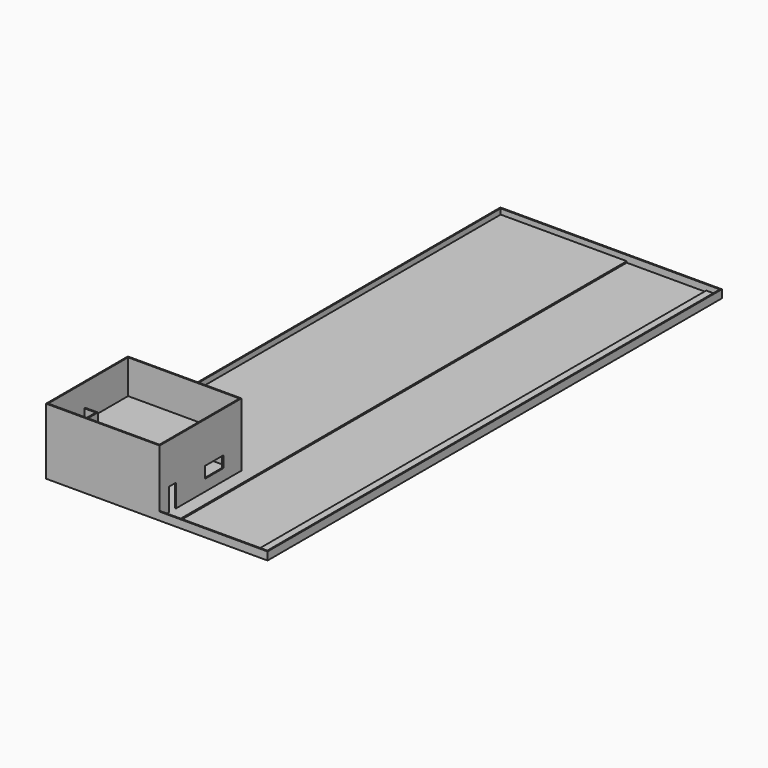
from build123d import *

# Parameters (mm, degrees)
F0_W      = 1.2
F0_H      = 49.8
F0_W_2    = 10
F1_DEPTH  = 0.12
F0_W_3    = 7
F0_H_2    = 0.1
F0_W_4    = 0.1
F1_FACE_W = 11.2
F1_FACE_H = 49.8
F2_DEPTH  = 0.1
F3_DEPTH  = 0.6
F4_W      = 10
F4_H      = 9
F4_W_2    = 0.1
F4_H_2    = 8.8
F5_DEPTH  = 2.5
F6_W      = 0.8
F6_H      = 2
F6_W_2    = 2
F6_H_2    = 1
F7_DEPTH  = 0.1
F8_W      = 0.8
F8_H      = 1.4
F8_H_2    = 2
F9_DEPTH  = 0.1
F11_DEPTH = 1
F12_W     = 10
F12_H     = 9
F12_W_2   = 3
F12_H_2   = 8.8
F13_DEPTH = 0.1
F14_W     = 10
F14_H     = 9
F14_W_2   = 9.8
F14_H_2   = 8.8
F15_DEPTH = 3
F16_W     = 1
F16_H     = 4
F17_DEPTH = 0.2
F18_W     = 0.1
F18_H     = 50
F19_DEPTH = 0.6
F21_DEPTH = 1


with BuildPart() as f1:
    # F0 (on Top) → F1 (new body)
    with BuildSketch(Plane.XY):
        with Locations((10.6, 25)):
            Rectangle(F0_W, F0_H)
        with Locations((5, 25)):
            Rectangle(F0_W_2, F0_H)
    extrude(amount=F1_DEPTH)



with BuildPart() as f1b:
    # F0 (on Top) → F1, piece 2 (new body)
    with BuildSketch(Plane.XY):
        with Locations((18.8, 25)):
            Rectangle(F0_W, F0_H)
    extrude(amount=F1_DEPTH)


with BuildPart() as f1_1:
    add(f1.part)

    add(f1b.part)  # F2 merges F1b
    # F0 (on Top) + F1_face (on face) → F2 (join)
    with BuildSketch(Plane.XY):
        with Locations((5, 25)):
            Rectangle(F0_W_2, F0_H)
        with Locations((10.6, 25)):
            Rectangle(F0_W, F0_H)
        with Locations((18.8, 25)):
            Rectangle(F0_W, F0_H)
        with Locations((14.7, 25)):
            Rectangle(F0_W_3, F0_H)
        with Locations((14.7, 0.05)):
            Rectangle(F0_W_3, F0_H_2)
        with Locations((10.6, 0.05)):
            Rectangle(F0_W, F0_H_2)
        with Locations((18.8, 0.05)):
            Rectangle(F0_W, F0_H_2)
        with Locations((19.45, 25)):
            Rectangle(F0_W_4, F0_H)
        with Locations((19.45, 0.05)):
            Rectangle(F0_W_4, F0_H_2)
        with Locations((5, 0.05)):
            Rectangle(F0_W_2, F0_H_2)
        with Locations((19.45, 49.95)):
            Rectangle(F0_W_4, F0_H_2)
        with Locations((18.8, 49.95)):
            Rectangle(F0_W, F0_H_2)
        with Locations((14.7, 49.95)):
            Rectangle(F0_W_3, F0_H_2)
        with Locations((10.6, 49.95)):
            Rectangle(F0_W, F0_H_2)
        with Locations((5, 49.95)):
            Rectangle(F0_W_2, F0_H_2)
    with BuildSketch(Plane(origin=(5.6, 25, 0.12), x_dir=(1, 0, 0), z_dir=(0, 0, 1))):
        Rectangle(F1_FACE_W, F1_FACE_H)
        Rectangle(F1_FACE_W, F1_FACE_H)
    extrude(amount=-F2_DEPTH)

    # F0 (on Top) → F3 (join)
    with BuildSketch(Plane.XY):
        with Locations((10.6, 49.95)):
            Rectangle(F0_W, F0_H_2)
        with Locations((5, 49.95)):
            Rectangle(F0_W_2, F0_H_2)
        with Locations((14.7, 49.95)):
            Rectangle(F0_W_3, F0_H_2)
        with Locations((18.8, 49.95)):
            Rectangle(F0_W, F0_H_2)
        with Locations((19.45, 25)):
            Rectangle(F0_W_4, F0_H)
        with Locations((19.45, 49.95)):
            Rectangle(F0_W_4, F0_H_2)
        with Locations((19.45, 0.05)):
            Rectangle(F0_W_4, F0_H_2)
        with Locations((18.8, 0.05)):
            Rectangle(F0_W, F0_H_2)
        with Locations((14.7, 0.05)):
            Rectangle(F0_W_3, F0_H_2)
        with Locations((5, 0.05)):
            Rectangle(F0_W_2, F0_H_2)
        with Locations((10.6, 0.05)):
            Rectangle(F0_W, F0_H_2)
    extrude(amount=F3_DEPTH)

    # F4 (on face) → F5 (join)
    with BuildSketch(Plane.XY.offset(0.12)):
        with Locations((5, 4.5)):
            Rectangle(F4_W, F4_H)
        Polygon((6.8, 0.1), (0.1, 0.1), (0.1, 8.9), (6.8, 8.9), (6.9, 8.9), (9.9, 8.9), (9.9, 0.1), (6.9, 0.1), align=None, mode=Mode.SUBTRACT)
        with Locations((6.85, 4.5)):
            Rectangle(F4_W_2, F4_H_2)
    extrude(amount=F5_DEPTH)

    # F6 (on face) → F7 (cut, through all)
    with BuildSketch(Plane.YZ.offset(10)):
        with Locations((1.4, 1.12)):
            Rectangle(F6_W, F6_H)
        with Locations((6, 1.62)):
            Rectangle(F6_W_2, F6_H_2)
    extrude(amount=-F7_DEPTH, mode=Mode.SUBTRACT)

    # F8 (on face) → F9 (cut, through all)
    with BuildSketch(Plane.YZ.offset(6.9)):
        with Locations((4.7, 0.82)):
            Rectangle(F8_W, F8_H)
        with Locations((6.5, 1.12)):
            Rectangle(F8_W, F8_H_2)
    extrude(amount=-F9_DEPTH, mode=Mode.SUBTRACT)

    # F10 (on face) → F11 (join)
    with BuildSketch(Plane.YZ.offset(0.1)):
        Polygon((0.1, 0.12), (3.8, 0.12), (3.8, 0.37), (3.5, 0.37), (3.5, 0.62), (3.2, 0.62), (3.2, 0.87), (2.9, 0.87), (2.9, 1.12), (2.6, 1.12), (2.6, 1.37), (2.3, 1.37), (2.3, 1.62), (2, 1.62), (2, 1.87), (1.7, 1.87), (1.7, 2.12), (1.4, 2.12), (1.4, 2.37), (1.1, 2.37), (1.1, 2.62), (0.1, 2.62), align=None)
    extrude(amount=F11_DEPTH)

    # F12 (on face) → F13 (join)
    with BuildSketch(Plane.XY.offset(2.62)):
        with Locations((5, 4.5)):
            Rectangle(F12_W, F12_H)
        Polygon((6.8, 8.9), (6.8, 0.1), (1.1, 0.1), (1.1, 1.1), (0.1, 1.1), (0.1, 8.9), align=None, mode=Mode.SUBTRACT)
        with Locations((8.4, 4.5)):
            Rectangle(F12_W_2, F12_H_2, mode=Mode.SUBTRACT)
        Polygon((1.1, 0.1), (6.8, 0.1), (6.8, 8.9), (0.1, 8.9), (0.1, 1.1), (1.1, 1.1), align=None)
        with Locations((8.4, 4.5)):
            Rectangle(F12_W_2, F12_H_2)
    extrude(amount=F13_DEPTH)

    # F14 (on face) → F15 (join)
    with BuildSketch(Plane.XY.offset(2.72)):
        with Locations((5, 4.5)):
            Rectangle(F14_W, F14_H)
        with Locations((5, 4.5)):
            Rectangle(F14_W_2, F14_H_2, mode=Mode.SUBTRACT)
    extrude(amount=F15_DEPTH)

    # F16 (on face) → F17 (cut)
    with BuildSketch(Plane.XY.offset(2.72)):
        with Locations((0.6, 2.1)):
            Rectangle(F16_W, F16_H)
    extrude(amount=-F17_DEPTH, mode=Mode.SUBTRACT)

    # F18 (on face) → F19 (join)
    with BuildSketch(Plane.XY):
        with Locations((0.05, 25)):
            Rectangle(F18_W, F18_H)
    extrude(amount=F19_DEPTH)

    # F20 (on face) → F21 (join)
    with BuildSketch(Plane.XY.offset(2.72)):
        Polygon((1.2, 4.2), (0.1, 4.2), (0.1, 4.1), (1.1, 4.1), (1.1, 1.1), (1.2, 1.1), align=None)
    extrude(amount=F21_DEPTH)


solid = f1_1.part
